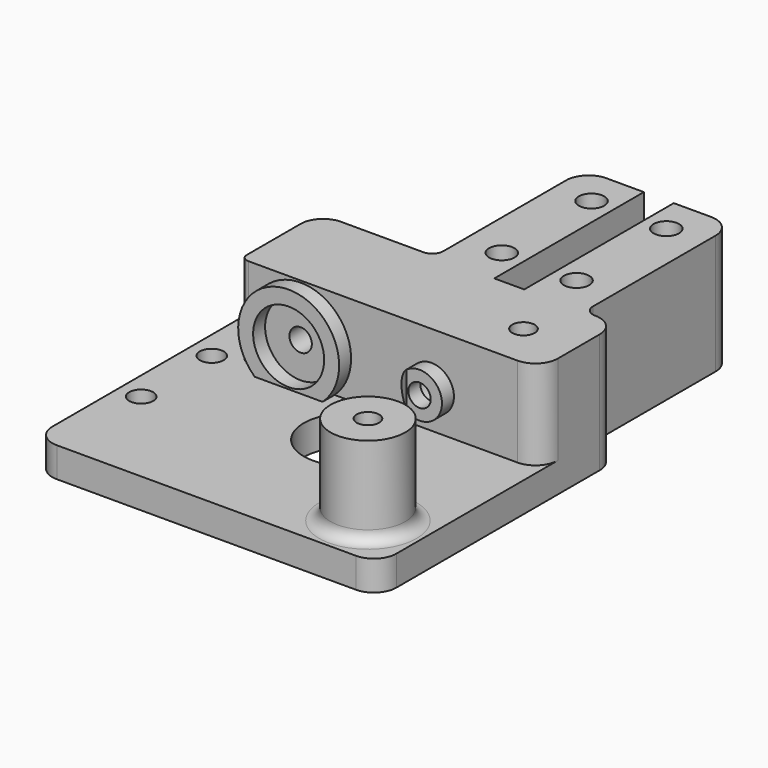
from build123d import *

# Parameters (mm, degrees)
PAD005_DEPTH         = 25
SKETCH010_R          = 1.7
POCKET005_DEPTH      = 7.001
POCKET005_DEPTH_BACK = 9.001
POCKET006_DEPTH      = 3
SKETCH_R             = 1.6
SKETCH_R_2           = 6
PAD_DEPTH            = 4
SKETCH001_R          = 5
PAD001_DEPTH         = 12
SKETCH002_R          = 2.2
POCKET_DEPTH         = 13.001
SKETCH004_R          = 1.5
POCKET002_DEPTH      = 13.001
SKETCH005_R          = 1.5
POCKET003_DEPTH      = 4.001
POCKET003_DEPTH_BACK = 12.001
SKETCH007_R          = 3
SKETCH007_R_2        = 1.5
PAD003_DEPTH         = 2
SKETCH003_R          = 4.75
PAD004_DEPTH         = 2
SKETCH008_R          = 6.25
POCKET004_DEPTH      = 12.001
FILLET_R             = 1.5
FILLET001_R          = 3
FILLET002_R          = 1
FILLET003_R          = 1.49
FILLET004_R          = 3


with BuildPart() as tubeclampingbody:
    # Sketch009 → Pad005 (new body)
    with BuildSketch(Plane.XZ):
        with BuildLine():
            Line((10, 7), (10, -9))
            Line((10, -9), (-10, -9))
            Line((-10, -9), (-10, 7))
            Line((-2, 7), (-10, 7))
            Line((-2, 0), (-2, 7))
            ThreePointArc((-2, 0), (0, -2), (2, 0))
            Line((2, 0), (2, 7))
            Line((2, 7), (10, 7))
        make_face()
    extrude(amount=-PAD005_DEPTH)

    # Sketch010 → Pocket005 (cut, two sides)
    with BuildSketch(Plane.XY) as pocket005_sk:
        with Locations((-5, 5)):
            Circle(SKETCH010_R)
        with Locations((5, 5)):
            Circle(SKETCH010_R)
        with Locations((-5, 20)):
            Circle(SKETCH010_R)
        with Locations((5, 20)):
            Circle(SKETCH010_R)
    extrude(amount=POCKET005_DEPTH, mode=Mode.SUBTRACT)
    extrude(pocket005_sk.sketch, amount=-POCKET005_DEPTH_BACK, mode=Mode.SUBTRACT)

    # Sketch011 (on DatumPlane) → Pocket006 (cut)
    with BuildSketch(Plane.XY.offset(-9)):
        Polygon((-2.125, 3.340118), (-2.125, 6.659882), (-5, 8.319764), (-7.875, 6.659882), (-7.875, 3.340118), (-5, 1.680236), align=None)
        Polygon((7.875, 3.340118), (7.875, 6.659882), (5, 8.319764), (2.125, 6.659882), (2.125, 3.340118), (5, 1.680236), align=None)
        Polygon((-2.125, 18.340118), (-2.125, 21.659882), (-5, 23.319764), (-7.875, 21.659882), (-7.875, 18.340118), (-5, 16.680236), align=None)
        Polygon((7.875, 18.340118), (7.875, 21.659882), (5, 23.319764), (2.125, 21.659882), (2.125, 18.340118), (5, 16.680236), align=None)
    extrude(amount=POCKET006_DEPTH, mode=Mode.SUBTRACT)


with BuildPart() as tubeclampingbody_1:
    # Body001 placement: moved
    add(tubeclampingbody.part.moved(Location((5.5, 20, 5))))


with BuildPart() as drivebase_refined:
    # Sketch → Pad (new body)
    with BuildSketch(Plane.XY):
        Polygon((0, 20), (-26, 20), (-26, 0), (-26, -20), (0, -20), (20, -20), (20, 0), (20, 20), align=None)
        with Locations((-23, 5.9)):
            Circle(SKETCH_R, mode=Mode.SUBTRACT)
        with Locations((-23, -5.9)):
            Circle(SKETCH_R, mode=Mode.SUBTRACT)
        Circle(SKETCH_R_2, mode=Mode.SUBTRACT)
    extrude(amount=-PAD_DEPTH)

    # Sketch001 → Pad001 (join)
    with BuildSketch(Plane.XY):
        with Locations((13, -13)):
            Circle(SKETCH001_R)
        Polygon((0, 20), (20, 20), (20, 7), (0, 7), (-20, 7), (-20, 20), align=None)
    extrude(amount=PAD001_DEPTH)

    # Sketch002 (on DatumPlane) → Pocket (cut, through all)
    with BuildSketch(Plane.XZ.offset(-7)):
        with Locations((5.5, 5)):
            Circle(SKETCH002_R)
    extrude(amount=-POCKET_DEPTH, mode=Mode.SUBTRACT)

    # Sketch004 (on DatumPlane) → Pocket002 (cut, through all)
    with BuildSketch(Plane.XZ.offset(-7)):
        with Locations((-12, 5)):
            Circle(SKETCH004_R)
    extrude(amount=-POCKET002_DEPTH, mode=Mode.SUBTRACT)

    # Sketch005 → Pocket003 (cut, two sides)
    with BuildSketch(Plane.XY) as pocket003_sk:
        with Locations((13, -13)):
            Circle(SKETCH005_R)
        with Locations((13, 13)):
            Circle(SKETCH005_R)
    extrude(amount=-POCKET003_DEPTH, mode=Mode.SUBTRACT)
    extrude(pocket003_sk.sketch, amount=POCKET003_DEPTH_BACK, mode=Mode.SUBTRACT)

    # Sketch007 (on DatumPlane) → Pad003 (join)
    with BuildSketch(Plane.XZ.offset(-7)):
        with Locations((5.5, 5)):
            Circle(SKETCH007_R)
        with Locations((5.5, 5)):
            Circle(SKETCH007_R_2, mode=Mode.SUBTRACT)
    extrude(amount=PAD003_DEPTH)

    # Sketch003 (on DatumPlane) → Pad004 (join)
    with BuildSketch(Plane.XZ.offset(-7)):
        with BuildLine():
            ThreePointArc((-7.465411, 0), (-12, 11.75), (-16.534589, 0))
            Line((-16.534589, 0), (-7.465411, 0))
        make_face()
        with Locations((-12, 5)):
            Circle(SKETCH003_R, mode=Mode.SUBTRACT)
    extrude(amount=PAD004_DEPTH)

    # Sketch008 → Pocket004 (cut, through all)
    with BuildSketch(Plane.XY):
        Circle(SKETCH008_R)
    extrude(amount=POCKET004_DEPTH, mode=Mode.SUBTRACT)

    # Fillet
    fillet_edges = [drivebase_refined.edges().sort_by_distance(p)[0] for p in [
        (8, -13, 0),
    ]]
    fillet(fillet_edges, radius=FILLET_R)

    # Fillet001
    fillet001_edges = [drivebase_refined.edges().sort_by_distance(p)[0] for p in [
        (-26, -20, -2),
        (20, -20, -2),
        (20, 20, -2),
        (-26, 20, -2),
        (20, 7, 6),
        (-20, 20, 6),
    ]]
    fillet(fillet001_edges, radius=FILLET001_R)

    # Fillet002
    fillet002_edges = [drivebase_refined.edges().sort_by_distance(p)[0] for p in [
        (-20, 7, 6),
    ]]
    fillet(fillet002_edges, radius=FILLET002_R)

    # Fusion: union TubeClampingBody
    add(tubeclampingbody_1.part)

    # Fillet003
    fillet003_edges = [drivebase_refined.edges().sort_by_distance(p)[0] for p in [
        (-4.5, 20, 6),
        (15.5, 20, 6),
    ]]
    fillet(fillet003_edges, radius=FILLET003_R)

    # Fillet004
    fillet004_edges = [drivebase_refined.edges().sort_by_distance(p)[0] for p in [
        (-4.5, 45, 4),
        (15.5, 45, 4),
    ]]
    fillet(fillet004_edges, radius=FILLET004_R)


solid = drivebase_refined.part
